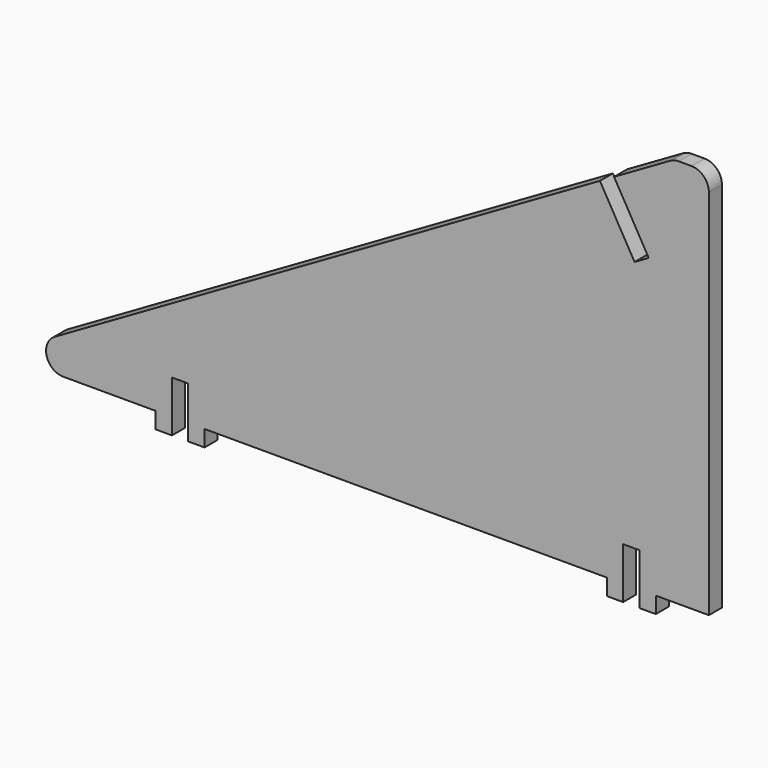
from build123d import *

# Parameters (mm, degrees)
F2_DEPTH = 4.7


with BuildPart() as f2:
    # F1 (on Front) → F2 (new body)
    with BuildSketch(Plane.XZ):
        with BuildLine():
            Line((-15.3, 0), (0, 0))
            Line((0, 0), (0, 107.2981178668))
            ThreePointArc((0, 107.2981178668), (-1.4644660941, 110.8336517727), (-5, 112.2981178668))
            Line((-5, 112.2981178668), (-8.6609683494, 112.2981178668))
            ThreePointArc((-8.6609683494, 112.2981178668), (-9.9544197878, 112.1279194545), (-11.1598138738, 111.6289112173))
            Line((-11.1598138738, 111.6289112173), (-27.3231734022, 102.3027357692))
            Line((-27.3231734022, 102.3027357692), (-17.3277913046, 84.979562367))
            Line((-17.3277913046, 84.979562367), (-21.3987370541, 82.630647574))
            Line((-21.3987370541, 82.630647574), (-31.3941191517, 99.9538209762))
            Line((-31.3941191517, 99.9538209762), (-188.4631123523, 9.3258184573))
            ThreePointArc((-188.4631123523, 9.3258184573), (-190.794240786, 3.7022174784), (-185.9655997989, -0.0049747155))
            Line((-185.9655997989, -0.0049747155), (-159.4, -0.0120569506))
            Line((-159.4, -0.0120569506), (-159.4, -4.7120569506))
            Line((-159.4, -4.7120569506), (-154.7, -4.7120569506))
            Line((-154.7, -4.7120569506), (-154.7, -0.0120569506))
            Line((-154.7, -0.0120569506), (-154.7, 9.9879430494))
            Line((-154.7, 9.9879430494), (-150, 9.9879430494))
            Line((-150, 9.9879430494), (-150, -0.0120569506))
            Line((-150, -0.0120569506), (-150, -4.7120569506))
            Line((-150, -4.7120569506), (-145.3, -4.7120569506))
            Line((-145.3, -4.7120569506), (-145.3, -0.0120569506))
            Line((-145.3, -0.0120569506), (-29.4, -0.0120569506))
            Line((-29.4, -0.0120569506), (-29.4, -4.7120569506))
            Line((-29.4, -4.7120569506), (-24.7, -4.7120569506))
            Line((-24.7, -4.7120569506), (-24.7, -0.0113617169))
            Line((-24.7, -0.0113617169), (-24.7, 9.9886382831))
            Line((-24.7, 9.9886382831), (-20, 9.9886382831))
            Line((-20, 9.9886382831), (-20, 0))
            Line((-20, 0), (-20, -4.7006952337))
            Line((-20, -4.7006952337), (-15.3, -4.7006952337))
            Line((-15.3, -4.7006952337), (-15.3, 0))
        make_face()
    extrude(amount=F2_DEPTH)


solid = f2.part
